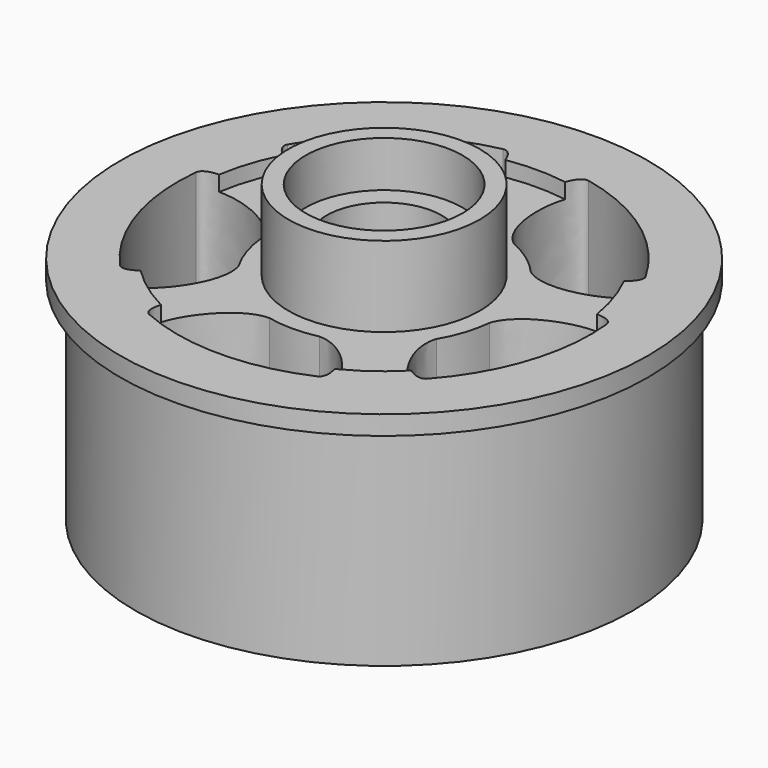
from build123d import *

# Parameters (mm, degrees)
SKETCH_R             = 6.9
SKETCH_R_2           = 1.5
PAD_DEPTH            = 7.7
SKETCH001_R          = 2.05
POCKET_DEPTH         = 1.2
SKETCH002_R          = 2.05
POCKET001_DEPTH      = 100
POCKET001_DEPTH_BACK = -0.1
SKETCH003_R          = 7
SKETCH003_R_2        = 2.5
POCKET002_DEPTH      = 1.7
POCKET004_DEPTH      = 49.661458
POCKET004_DEPTH_BACK = -41.961458
SKETCH007_R          = 8
SKETCH007_R_2        = 6.5
POCKET005_DEPTH      = 5.5
POLARPATTERN_COUNT   = 5
SKETCH009_R          = 5
SKETCH009_R_2        = 2.5
POCKET006_DEPTH      = 2.1


with BuildPart() as part:
    # Sketch → Pad (new body)
    with BuildSketch(Plane.XY):
        Circle(SKETCH_R)
        Circle(SKETCH_R_2, mode=Mode.SUBTRACT)
    extrude(amount=PAD_DEPTH)

    # Sketch001 (on Face4 of Pad) → Pocket (cut)
    with BuildSketch(Plane.XY.offset(7.7)):
        Circle(SKETCH001_R)
    extrude(amount=-POCKET_DEPTH, mode=Mode.SUBTRACT)

    # Sketch002 (on Face3 of Pocket) → Pocket001 (cut, two sides)
    with BuildSketch(Plane.XY.offset(5.2)) as pocket001_sk:
        Circle(SKETCH002_R)
    extrude(amount=-POCKET001_DEPTH, mode=Mode.SUBTRACT)
    extrude(pocket001_sk.sketch, amount=-POCKET001_DEPTH_BACK, mode=Mode.SUBTRACT)

    # Sketch003 (on Face3 of Pocket001) → Pocket002 (cut)
    with BuildSketch(Plane.XY.offset(7.7)):
        Circle(SKETCH003_R)
        Circle(SKETCH003_R_2, mode=Mode.SUBTRACT)
    extrude(amount=-POCKET002_DEPTH, mode=Mode.SUBTRACT)

    # Sketch005 → Groove (revolve, cut)
    with BuildSketch(Plane.XZ):
        with BuildLine():
            Line((0, 0), (0, 3.9))
            Line((0, 3.9), (2.5, 3.9))
            add(Edge.make_bspline(
                [(5.5, -1), (5.5, 3.9), (2.5, 3.9)],
                knots=[0, 0, 0, 1, 1, 1], degree=2))
            Line((5.5, -1), (0, -1))
            Line((0, -1), (0, 0))
        make_face()
    revolve(axis=Axis((0, 0, 0), (0, 0, 1)), mode=Mode.SUBTRACT)

    # Sketch006 (on Face2 of Groove) → Pocket004 (cut, two sides)
    with BuildSketch(Plane(origin=(0, 0, 0), x_dir=(1, 0, 0), z_dir=(0, 0, -1))) as pocket004_sk:
        with BuildLine():
            add(Edge.make_bspline(
                [(0.65, 2.928737), (1.65, 2.928737), (2.646703, 4.706906), (2.2, 4.931531)],
                knots=[0, 0, 0, 0, 1, 1, 1, 1], degree=3))
            ThreePointArc((0.65, 2.928737), (0, 3), (-0.65, 2.928737))
            add(Edge.make_bspline(
                [(-0.65, 2.928737), (-1.65, 2.928737), (-2.646703, 4.706906), (-2.2, 4.931531)],
                knots=[0, 0, 0, 0, 1, 1, 1, 1], degree=3))
            ThreePointArc((-2.2, 4.931531), (0, 5.4), (2.2, 4.931531))
        make_face()
    pocket004 = extrude(amount=-POCKET004_DEPTH, mode=Mode.SUBTRACT)
    extrude(pocket004_sk.sketch, amount=-POCKET004_DEPTH_BACK, mode=Mode.SUBTRACT)

    # Sketch007 (on Face2 of Pocket001) → Pocket005 (cut)
    with BuildSketch(Plane(origin=(0, 0, 0), x_dir=(1, 0, 0), z_dir=(0, 0, -1))):
        Circle(SKETCH007_R)
        Circle(SKETCH007_R_2, mode=Mode.SUBTRACT)
    extrude(amount=-POCKET005_DEPTH, mode=Mode.SUBTRACT)

    # PolarPattern: Pocket004 ×5 about axis
    polarpattern_axis = Axis((0, 0, 0), (0, 0, 1))
    for i in range(1, POLARPATTERN_COUNT):
        add(pocket004.rotate(polarpattern_axis, i * 360 / POLARPATTERN_COUNT), mode=Mode.SUBTRACT)

    # Sketch009 (on Face3 of Pocket001) → Pocket006 (cut)
    with BuildSketch(Plane.XY.offset(7.7)):
        Circle(SKETCH009_R)
        Circle(SKETCH009_R_2, mode=Mode.SUBTRACT)
    extrude(amount=-POCKET006_DEPTH, mode=Mode.SUBTRACT)


solid = part.part
